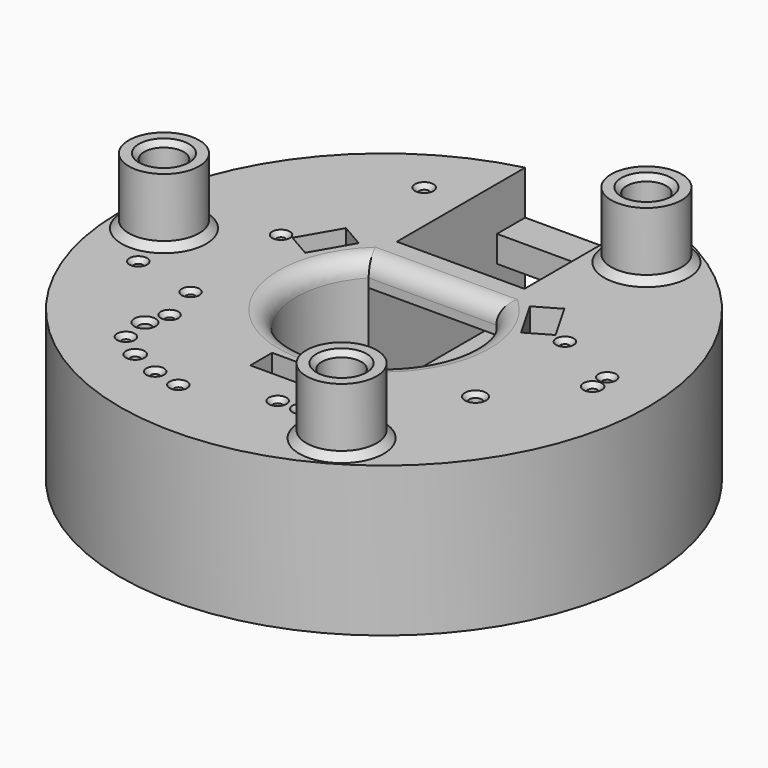
from build123d import *

# Parameters (mm, degrees)
SKETCH022_R        = 30
PAD_DEPTH          = 17
SKETCH023_R        = 0.7
POCKET_DEPTH       = 15.9
SKETCH024_R        = 0.55
POCKET001_DEPTH    = 13
SKETCH025_R        = 0.5
POCKET002_DEPTH    = 2
SKETCH026_W        = 5.1
SKETCH026_H        = 3.1
POCKET003_DEPTH    = 10
POLARPATTERN_COUNT = 3
SKETCH032_R        = 4
PAD002_DEPTH       = 7.5
SKETCH033_R        = 2.25
POCKET008_DEPTH    = 6
CHAMFER_SIZE       = 0.6
CHAMFER001_SIZE    = 0.8
SKETCH038_R        = 4.25
POCKET011_DEPTH    = 0.4
POCKET013_DEPTH    = 14
SKETCH046_W        = 4
SKETCH046_H        = 3
PAD010_DEPTH       = 14.5
CHAMFER006_SIZE    = 0.5
FILLET001_R        = 2


with BuildPart() as part:
    # Sketch022 (on DatumPlane) → Pad (new body)
    with BuildSketch(Plane(origin=(0, 0, -14.6), x_dir=(1, 0, 0), z_dir=(0, 0, -1))):
        Circle(SKETCH022_R)
    extrude(amount=PAD_DEPTH)

    # Sketch023 (on Face2 of Pad) → Pocket (cut)
    with BuildSketch(Plane.XY.offset(-14.6)):
        with Locations((-15, -15.2)):
            Circle(SKETCH023_R)
        with Locations((6.2, -16.6)):
            Circle(SKETCH023_R)
        with Locations((16.8, -8)):
            Circle(SKETCH023_R)
    extrude(amount=-POCKET_DEPTH, mode=Mode.SUBTRACT)

    # Sketch024 (on Face2 of Pocket) → Pocket001 (cut)
    with BuildSketch(Plane.XY.offset(-14.6)):
        with Locations((-11.85, -20.524803)):
            Circle(SKETCH024_R)
        with Locations((23.7, 0)):
            Circle(SKETCH024_R)
        with Locations((-11.85, 20.524802)):
            Circle(SKETCH024_R)
    extrude(amount=-POCKET001_DEPTH, mode=Mode.SUBTRACT)

    # Sketch025 (on Face2 of Pocket001) → Pocket002 (cut)
    with BuildSketch(Plane.XY.offset(-14.6)):
        with Locations((-16.1, 5.5)):
            Circle(SKETCH025_R)
        with Locations((-22.8, -6.4)):
            Circle(SKETCH025_R)
        with Locations((-15.5, -8.1)):
            Circle(SKETCH025_R)
        with Locations((-14.2, -12.7)):
            Circle(SKETCH025_R)
        with Locations((-14.6, -18.4)):
            Circle(SKETCH025_R)
        with Locations((-8.4, -22)):
            Circle(SKETCH025_R)
        with Locations((-5.2, -22.7)):
            Circle(SKETCH025_R)
        with Locations((3.6, -19.6)):
            Circle(SKETCH025_R)
        with Locations((6.2, -19.5)):
            Circle(SKETCH025_R)
        with Locations((10.240525, -14.05962)):
            Circle(SKETCH025_R)
        with Locations((23.6, 2.2)):
            Circle(SKETCH025_R)
        with Locations((16.4, 5.2)):
            Circle(SKETCH025_R)
    extrude(amount=-POCKET002_DEPTH, mode=Mode.SUBTRACT)

    # Sketch026 (on Face2 of Pocket002) → Pocket003 (cut)
    with BuildSketch(Plane.XY.offset(-14.6)):
        with Locations((0, -14.24549)):
            Rectangle(SKETCH026_W, SKETCH026_H)
    pocket003 = extrude(amount=-POCKET003_DEPTH, mode=Mode.SUBTRACT)

    # PolarPattern: Pocket003 ×3 about axis
    polarpattern_axis = Axis((0, 0, -14.6), (0, 0, 1))
    for i in range(1, POLARPATTERN_COUNT):
        add(pocket003.rotate(polarpattern_axis, i * 360 / POLARPATTERN_COUNT), mode=Mode.SUBTRACT)

    # Sketch032 (on Face2 of PolarPattern) → Pad002 (join)
    with BuildSketch(Plane.XY.offset(-14.6)):
        with Locations((12.5, 21.650635)):
            Circle(SKETCH032_R)
        with Locations((-25, 0)):
            Circle(SKETCH032_R)
        with Locations((12.5, -21.650635)):
            Circle(SKETCH032_R)
    extrude(amount=PAD002_DEPTH)

    # Sketch033 (on Face43 of Pad002) → Pocket008 (cut)
    with BuildSketch(Plane.XY.offset(-7.1)):
        with Locations((-25, 0)):
            Circle(SKETCH033_R)
        with Locations((12.5, 21.650635)):
            Circle(SKETCH033_R)
        with Locations((12.5, -21.650635)):
            Circle(SKETCH033_R)
    extrude(amount=-POCKET008_DEPTH, mode=Mode.SUBTRACT)

    # Chamfer
    chamfer_edges = [part.edges().sort_by_distance(p)[0] for p in [
        (-27.25, 0, -7.1),
        (10.25, -21.650635, -7.1),
        (10.25, 21.650635, -7.1),
    ]]
    chamfer(chamfer_edges, length=CHAMFER_SIZE)

    # Chamfer001
    chamfer001_edges = [part.edges().sort_by_distance(p)[0] for p in [
        (-29, 0, -14.6),
        (8.5, -21.650635, -14.6),
        (8.5, 21.650635, -14.6),
    ]]
    chamfer(chamfer001_edges, length=CHAMFER001_SIZE)

    # Sketch038 (on Face40 of Chamfer001) → Pocket011 (cut)
    with BuildSketch(Plane(origin=(0, 0, -31.6), x_dir=(1, 0, 0), z_dir=(0, 0, -1))):
        with Locations((-25, 0)):
            Circle(SKETCH038_R)
        with Locations((12.5, 21.650635)):
            Circle(SKETCH038_R)
        with Locations((12.5, -21.650635)):
            Circle(SKETCH038_R)
    extrude(amount=-POCKET011_DEPTH, mode=Mode.SUBTRACT)

    # Sketch045 (on Face4 of Pocket011) → Pocket013 (cut)
    with BuildSketch(Plane.XY.offset(-14.6)):
        with BuildLine():
            ThreePointArc((-7.25, 6.887489), (0, -10), (7.25, 6.887489))
            Line((7.25, 6.887489), (7.25, 30.887489))
            Line((7.25, 30.887489), (-7.25, 30.887489))
            Line((-7.25, 30.887489), (-7.25, 6.887489))
        make_face()
    extrude(amount=-POCKET013_DEPTH, mode=Mode.SUBTRACT)

    # Sketch046 (on Face9 of Pocket013) → Pad010 (join)
    with BuildSketch(Plane(origin=(7.25, 0, -14.6), x_dir=(0, 1, 0), z_dir=(-1, 0, 0))):
        with Locations((8.887489, 1.5)):
            Rectangle(SKETCH046_W, SKETCH046_H)
        with Locations((27.11078, 6.5)):
            Rectangle(SKETCH046_W, SKETCH046_H)
    extrude(amount=PAD010_DEPTH)

    # Chamfer006
    chamfer006_edges = [part.edges().sort_by_distance(p)[0] for p in [
        (23.15, 0, -14.6),
        (23.1, 2.2, -14.6),
        (15.9, 5.2, -14.6),
        (16.1, -8, -14.6),
        (9.740525, -14.05962, -14.6),
        (5.5, -16.6, -14.6),
        (5.7, -19.5, -14.6),
        (3.1, -19.6, -14.6),
        (-16.6, 5.5, -14.6),
        (-12.4, 20.524802, -14.6),
        (-16, -8.1, -14.6),
        (-14.7, -12.7, -14.6),
        (-15.7, -15.2, -14.6),
        (-15.1, -18.4, -14.6),
        (-12.4, -20.524803, -14.6),
        (-8.9, -22, -14.6),
        (-5.7, -22.7, -14.6),
        (-23.3, -6.4, -14.6),
    ]]
    chamfer(chamfer006_edges, length=CHAMFER006_SIZE)

    # Fillet001
    fillet001_edges = [part.edges().sort_by_distance(p)[0] for p in [
        (0, -10, -14.6),
        (0, 6.887489, -14.6),
    ]]
    fillet(fillet001_edges, radius=FILLET001_R)


solid = part.part
